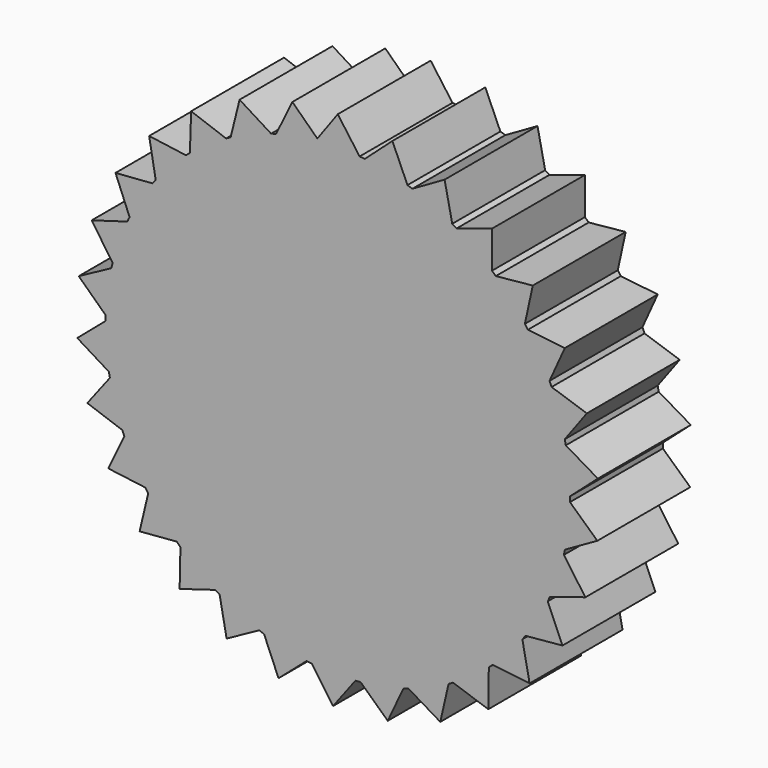
from build123d import *

# Parameters (mm, degrees)
F1_DEPTH = 12.7


with BuildPart() as f1:
    # F0 (on Front) → F1 (new body)
    with BuildSketch(Plane.XZ):
        with BuildLine():
            ThreePointArc((25.3948429948, -0.5118097985), (25.398710716, -0.2559178894), (25.4, 0))
            ThreePointArc((25.4, 0), (25.3999860485, 0.0266220613), (25.3999441942, 0.0532440933))
            ThreePointArc((25.3999441942, 0.0532440933), (25.2823297123, 2.4420901537), (24.9405452403, 4.8092830148))
            ThreePointArc((24.9405452403, 4.8092830148), (24.8855058459, 5.0864131562), (24.8273871825, 5.3629139178))
            ThreePointArc((24.8273871825, 5.3629139178), (24.2128911527, 7.6743665555), (23.383707488, 9.917773143))
            ThreePointArc((23.383707488, 9.917773143), (23.2719398097, 10.1772696484), (23.1572925209, 10.4355068444))
            ThreePointArc((23.1572925209, 10.4355068444), (22.0730798045, 12.5673842921), (20.7931524471, 14.5878309324))
            ThreePointArc((20.7931524471, 14.5878309324), (20.6295973686, 14.8182223093), (20.4634896365, 15.0467801172))
            ThreePointArc((20.4634896365, 15.0467801172), (18.9574897343, 16.9048390402), (17.2834000897, 18.6130083903))
            ThreePointArc((17.2834000897, 18.6130083903), (17.0752878467, 18.8041097889), (16.8650627512, 18.9928844149))
            ThreePointArc((16.8650627512, 18.9928844149), (15.0038509972, 20.4949861004), (13.0096050977, 21.8153655757))
            ThreePointArc((13.0096050977, 21.8153655757), (12.7661356522, 21.9587290277), (12.5210865577, 22.0993753625))
            ThreePointArc((12.5210865577, 22.0993753625), (10.386941041, 23.1791168039), (8.1606979804, 24.053336743))
            ThreePointArc((8.1606979804, 24.053336743), (7.892634321, 24.1426246186), (7.6235940472, 24.2289251475))
            ThreePointArc((7.6235940472, 24.2289251475), (5.3108583666, 24.8385745044), (2.9510330751, 25.2279885007))
            ThreePointArc((2.9510330751, 25.2279885007), (2.6702254201, 25.2592536748), (2.3890873582, 25.2873933333))
            ThreePointArc((2.3890873582, 25.2873933333), (0.1760546114, 25.3993898504), (-2.0383180173, 25.3180816742))
            ThreePointArc((-2.0383180173, 25.3180816742), (-2.2137558658, 25.3033453315), (-2.3890873582, 25.2873933333))
            ThreePointArc((-2.3890873582, 25.2873933333), (-4.5839377077, 24.982944484), (-6.7439015233, 24.4883603421))
            ThreePointArc((-6.7439015233, 24.4883603421), (-7.0158820659, 24.411829076), (-7.2869944811, 24.3322771526))
            ThreePointArc((-7.2869944811, 24.3322771526), (-9.5433476931, 23.5389998685), (-11.7150832222, 22.5370101189))
            ThreePointArc((-11.7150832222, 22.5370101189), (-11.9650502401, 22.4053023356), (-12.2135367333, 22.2708221775))
            ThreePointArc((-12.2135367333, 22.2708221775), (-14.2541514602, 21.0233005532), (-16.1683793774, 19.5893723306))
            ThreePointArc((-16.1683793774, 19.5893723306), (-16.3852826458, 19.4083104009), (-16.6001584412, 19.2248469364))
            ThreePointArc((-16.6001584412, 19.2248469364), (-18.3348257747, 17.5782298259), (-19.9069243197, 15.7757524109))
            ThreePointArc((-19.9069243197, 15.7757524109), (-20.0811752538, 15.5533404909), (-20.2529413947, 15.3290040402))
            ThreePointArc((-20.2529413947, 15.3290040402), (-21.604977361, 13.3560830047), (-22.7654491948, 11.2647380332))
            ThreePointArc((-22.7654491948, 11.2647380332), (-22.8893447304, 11.010808227), (-23.010407997, 10.7555159715))
            ThreePointArc((-23.010407997, 10.7555159715), (-23.9200435047, 8.5435074024), (-24.61758796, 6.255746401))
            ThreePointArc((-24.61758796, 6.255746401), (-24.6856510803, 5.9815241155), (-24.7506596611, 5.7065616914))
            ThreePointArc((-24.7506596611, 5.7065616914), (-25.1776826971, 3.3532512586), (-25.3814636132, 0.9702086645))
            ThreePointArc((-25.3814636132, 0.9702086645), (-25.3906854701, 0.6878163708), (-25.3967655484, 0.4053389684))
            ThreePointArc((-25.3967655484, 0.4053389684), (-25.3222988198, -1.9852411648), (-25.0233077083, -4.3582188263))
            ThreePointArc((-25.0233077083, -4.3582188263), (-24.9732806336, -4.6362974879), (-24.920163429, -4.9138024658))
            ThreePointArc((-24.920163429, -4.9138024658), (-24.3474988664, -7.2359725641), (-23.5589531473, -9.4939837057))
            ThreePointArc((-23.5589531473, -9.4939837057), (-23.4518886745, -9.7554557863), (-23.341922325, -10.0157207516))
            ThreePointArc((-23.341922325, -10.0157207516), (-22.2963755574, -12.166825264), (-21.0531342598, -14.2100505924))
            ThreePointArc((-21.0531342598, -14.2100505924), (-20.8937653594, -14.4433572658), (-20.7318111179, -14.674876755))
            ThreePointArc((-20.7318111179, -14.674876755), (-19.2596023508, -16.5598223809), (-17.6166251096, -18.2979375818))
            ThreePointArc((-17.6166251096, -18.2979375818), (-17.4119969598, -18.4927651224), (-17.2052142941, -18.6853044154))
            ThreePointArc((-17.2052142941, -18.6853044154), (-15.3714250659, -20.2207638689), (-13.4013425355, -21.5769325495))
            ThreePointArc((-13.4013425355, -21.5769325495), (-13.1605010782, -21.7246682684), (-12.918031174, -21.8697158323))
            ThreePointArc((-12.918031174, -21.8697158323), (-10.8037273136, -22.987811469), (-8.5936304044, -23.9020818439))
            ThreePointArc((-8.5936304044, -23.9020818439), (-8.3272224532, -23.9961948278), (-8.0597841127, -24.0873385839))
            ThreePointArc((-8.0597841127, -24.0873385839), (-5.7584320841, -24.7386430496), (-3.4060219576, -25.1705982135))
            ThreePointArc((-3.4060219576, -25.1705982135), (-3.1258245374, -25.206928035), (-2.8452403356, -25.2401388156))
            ThreePointArc((-2.8452403356, -25.2401388156), (-0.458575391, -25.3958600683), (1.9321555888, -25.3264046951))
            ThreePointArc((1.9321555888, -25.3264046951), (2.2137558658, -25.3033453315), (2.4950822182, -25.2771549966))
            ThreePointArc((2.4950822182, -25.2771549966), (4.8615534215, -24.9304091088), (7.1849188511, -24.3626135934))
            ThreePointArc((7.1849188511, -24.3626135934), (7.4554733568, -24.2811844239), (7.7251053413, -24.1967507626))
            ThreePointArc((7.7251053413, -24.1967507626), (9.9667688451, -23.3628662366), (12.1200603317, -22.3218309633))
            ThreePointArc((12.1200603317, -22.3218309633), (12.3676087357, -22.1856317052), (12.6136268034, -22.0466872537))
            ThreePointArc((12.6136268034, -22.0466872537), (14.63138599, -20.7625273994), (16.5194135542, -19.2942731354))
            ThreePointArc((16.5194135542, -19.2942731354), (16.7330125505, -19.1093247129), (16.9445410466, -18.9220117514))
            ThreePointArc((16.9445410466, -18.9220117514), (18.6491973766, -17.2443450791), (20.1884974899, -15.4137785471))
            ThreePointArc((20.1884974899, -15.4137785471), (20.358704565, -15.1882569255), (20.526392506, -14.9608559478))
            ThreePointArc((20.526392506, -14.9608559478), (21.842588694, -12.9638466185), (22.9651139288, -10.8518911824))
            ThreePointArc((22.9651139288, -10.8518911824), (23.0844047841, -10.5957659356), (23.2008392342, -10.3383295957))
            ThreePointArc((23.2008392342, -10.3383295957), (24.070390548, -8.1102588655), (24.7265177324, -5.8102771732))
            ThreePointArc((24.7265177324, -5.8102771732), (24.789618909, -5.5348707613), (24.8496526816, -5.2587794786))
            ThreePointArc((24.8496526816, -5.2587794786), (25.2341190995, -2.8981430728), (25.3948429948, -0.5118097985))
        make_face()
        with BuildLine():
            ThreePointArc((24.9405452403, 4.8092830148), (25.2823297123, 2.4420901537), (25.3999441942, 0.0532440933))
            Line((25.3999441942, 0.0532440933), (28.4426209263, 2.7473514229))
            Line((28.4426209263, 2.7473514229), (24.9405452403, 4.8092830148))
        make_face()
        with BuildLine():
            Line((28.388383987, -3.2604109569), (25.3948429948, -0.5118097985))
            ThreePointArc((25.3948429948, -0.5118097985), (25.2341190995, -2.8981430728), (24.8496526816, -5.2587794786))
            Line((24.8496526816, -5.2587794786), (28.388383987, -3.2604109569))
        make_face()
        with BuildLine():
            ThreePointArc((23.383707488, 9.917773143), (24.2128911527, 7.6743665555), (24.8273871825, 5.3629139178))
            Line((24.8273871825, 5.3629139178), (27.2395025468, 8.6336623749))
            Line((27.2395025468, 8.6336623749), (23.383707488, 9.917773143))
        make_face()
        with BuildLine():
            Line((27.0791893665, -9.1240412236), (24.7265177324, -5.8102771732))
            ThreePointArc((24.7265177324, -5.8102771732), (24.070390548, -8.1102588655), (23.2008392342, -10.3383295957))
            Line((23.2008392342, -10.3383295957), (27.0791893665, -9.1240412236))
        make_face()
        with BuildLine():
            ThreePointArc((20.7931524471, 14.5878309324), (22.0730798045, 12.5673842921), (23.1572925209, 10.4355068444))
            Line((23.1572925209, 10.4355068444), (24.83221478, 14.1383073286))
            Line((24.83221478, 14.1383073286), (20.7931524471, 14.5878309324))
        make_face()
        with BuildLine():
            Line((24.5729122807, -14.5843274458), (22.9651139288, -10.8518911824))
            ThreePointArc((22.9651139288, -10.8518911824), (21.842588694, -12.9638466185), (20.526392506, -14.9608559478))
            Line((20.526392506, -14.9608559478), (24.5729122807, -14.5843274458))
        make_face()
        with BuildLine():
            ThreePointArc((17.2834000897, 18.6130083903), (18.9574897343, 16.9048390402), (20.4634896365, 15.0467801172))
            Line((20.4634896365, 15.0467801172), (21.3271759511, 19.0179439202))
            Line((21.3271759511, 19.0179439202), (17.2834000897, 18.6130083903))
        make_face()
        with BuildLine():
            Line((20.9803470487, -19.399888214), (20.1884974899, -15.4137785471))
            ThreePointArc((20.1884974899, -15.4137785471), (18.6491973766, -17.2443450791), (16.9445410466, -18.9220117514))
            Line((16.9445410466, -18.9220117514), (20.9803470487, -19.399888214))
        make_face()
        with BuildLine():
            ThreePointArc((13.0096050977, 21.8153655757), (15.0038509972, 20.4949861004), (16.8650627512, 18.9928844149))
            Line((16.8650627512, 18.9928844149), (16.8793323718, 23.0568593629))
            Line((16.8793323718, 23.0568593629), (13.0096050977, 21.8153655757))
        make_face()
        with BuildLine():
            Line((16.4603092388, -23.3578433243), (16.5194135542, -19.2942731354))
            ThreePointArc((16.5194135542, -19.2942731354), (14.63138599, -20.7625273994), (12.6136268034, -22.0466872537))
            Line((12.6136268034, -22.0466872537), (16.4603092388, -23.3578433243))
        make_face()
        with BuildLine():
            ThreePointArc((8.1606979804, 24.053336743), (10.386941041, 23.1791168039), (12.5210865577, 22.0993753625))
            Line((12.5210865577, 22.0993753625), (11.6853086711, 26.0765064044))
            Line((11.6853086711, 26.0765064044), (8.1606979804, 24.053336743))
        make_face()
        with BuildLine():
            Line((11.2126149507, -26.2832245162), (12.1200603317, -22.3218309633))
            ThreePointArc((12.1200603317, -22.3218309633), (9.9667688451, -23.3628662366), (7.7251053413, -24.1967507626))
            Line((7.7251053413, -24.1967507626), (11.2126149507, -26.2832245162))
        make_face()
        with BuildLine():
            ThreePointArc((2.9510330751, 25.2279885007), (5.3108583666, 24.8385745044), (7.6235940472, 24.2289251475))
            Line((7.6235940472, 24.2289251475), (5.9747156624, 27.9433963174))
            Line((5.9747156624, 27.9433963174), (2.9510330751, 25.2279885007))
        make_face()
        with BuildLine():
            Line((5.4692475992, -28.0467102473), (7.1849188511, -24.3626135934))
            ThreePointArc((7.1849188511, -24.3626135934), (4.8615534215, -24.9304091088), (2.4950822182, -25.2771549966))
            Line((2.4950822182, -25.2771549966), (5.4692475992, -28.0467102473))
        make_face()
        with BuildLine():
            ThreePointArc((-2.0383180173, 25.3180816742), (0.1760546114, 25.3993898504), (2.3890873582, 25.2873933333))
            Line((2.3890873582, 25.2873933333), (0, 28.575))
            Line((0, 28.575), (-2.2313505794, 25.5044538287))
            Line((-2.2313505794, 25.5044538287), (-2.0383180173, 25.3180816742))
        make_face()
        with BuildLine():
            Line((-0.5158973148, -28.5703425769), (1.9321555888, -25.3264046951))
            ThreePointArc((1.9321555888, -25.3264046951), (-0.458575391, -25.3958600683), (-2.8452403356, -25.2401388156))
            Line((-2.8452403356, -25.2401388156), (-0.5158973148, -28.5703425769))
        make_face()
        with BuildLine():
            ThreePointArc((-2.3890873582, 25.2873933333), (-2.2137558658, 25.3033453315), (-2.0383180173, 25.3180816742))
            Line((-2.0383180173, 25.3180816742), (-2.2313505794, 25.5044538287))
            Line((-2.2313505794, 25.5044538287), (-2.3890873582, 25.2873933333))
        make_face()
        with BuildLine():
            ThreePointArc((-6.7439015233, 24.4883603421), (-4.5839377077, 24.982944484), (-2.3890873582, 25.2873933333))
            Line((-2.3890873582, 25.2873933333), (-2.2313505794, 25.5044538287))
            Line((-2.2313505794, 25.5044538287), (-4.9619966768, 28.1408815423))
            Line((-4.9619966768, 28.1408815423), (-6.7439015233, 24.4883603421))
        make_face()
        with BuildLine():
            Line((-6.4782360946, -27.8309734307), (-3.4060219576, -25.1705982135))
            ThreePointArc((-3.4060219576, -25.1705982135), (-5.7584320841, -24.7386430496), (-8.0597841127, -24.0873385839))
            Line((-8.0597841127, -24.0873385839), (-6.4782360946, -27.8309734307))
        make_face()
        with BuildLine():
            ThreePointArc((-11.7150832222, 22.5370101189), (-9.5433476931, 23.5389998685), (-7.2869944811, 24.3322771526))
            Line((-7.2869944811, 24.3322771526), (-10.7362661547, 26.481374852))
            Line((-10.7362661547, 26.481374852), (-11.7150832222, 22.5370101189))
        make_face()
        with BuildLine():
            Line((-12.1541932278, -25.8612879026), (-8.5936304044, -23.9020818439))
            ThreePointArc((-8.5936304044, -23.9020818439), (-10.8037273136, -22.987811469), (-12.918031174, -21.8697158323))
            Line((-12.918031174, -21.8697158323), (-12.1541932278, -25.8612879026))
        make_face()
        with BuildLine():
            ThreePointArc((-16.1683793774, 19.5893723306), (-14.2541514602, 21.0233005532), (-12.2135367333, 22.2708221775))
            Line((-12.2135367333, 22.2708221775), (-16.0359203927, 23.6512131223))
            Line((-16.0359203927, 23.6512131223), (-16.1683793774, 19.5893723306))
        make_face()
        with BuildLine():
            Line((-17.2928531992, -22.7483593525), (-13.4013425355, -21.5769325495))
            ThreePointArc((-13.4013425355, -21.5769325495), (-15.3714250659, -20.2207638689), (-17.2052142941, -18.6853044154))
            Line((-17.2052142941, -18.6853044154), (-17.2928531992, -22.7483593525))
        make_face()
        with BuildLine():
            ThreePointArc((-19.9069243197, 15.7757524109), (-18.3348257747, 17.5782298259), (-16.6001584412, 19.2248469364))
            Line((-16.6001584412, 19.2248469364), (-20.6266789965, 19.7755085541))
            Line((-20.6266789965, 19.7755085541), (-19.9069243197, 15.7757524109))
        make_face()
        with BuildLine():
            Line((-21.6670526447, -18.6298001786), (-17.6166251096, -18.2979375818))
            ThreePointArc((-17.6166251096, -18.2979375818), (-19.2596023508, -16.5598223809), (-20.7318111179, -14.674876755))
            Line((-20.7318111179, -14.674876755), (-21.6670526447, -18.6298001786))
        make_face()
        with BuildLine():
            ThreePointArc((-22.7654491948, 11.2647380332), (-21.604977361, 13.3560830047), (-20.2529413947, 15.3290040402))
            Line((-20.2529413947, 15.3290040402), (-24.3055995312, 15.0255933803))
            Line((-24.3055995312, 15.0255933803), (-22.7654491948, 11.2647380332))
        make_face()
        with BuildLine():
            Line((-25.083422502, -13.687678422), (-21.0531342598, -14.2100505924))
            ThreePointArc((-21.0531342598, -14.2100505924), (-22.2963755574, -12.166825264), (-23.341922325, -10.0157207516))
            Line((-23.341922325, -10.0157207516), (-25.083422502, -13.687678422))
        make_face()
        with BuildLine():
            ThreePointArc((-24.61758796, 6.255746401), (-23.9200435047, 8.5435074024), (-23.010407997, 10.7555159715))
            Line((-23.010407997, 10.7555159715), (-26.9100489427, 9.6114458277))
            Line((-26.9100489427, 9.6114458277), (-24.61758796, 6.255746401))
        make_face()
        with BuildLine():
            Line((-27.3909362247, -8.1404691347), (-23.5589531473, -9.4939837057))
            ThreePointArc((-23.5589531473, -9.4939837057), (-24.3474988664, -7.2359725641), (-24.920163429, -4.9138024658))
            Line((-24.920163429, -4.9138024658), (-27.3909362247, -8.1404691347))
        make_face()
        with BuildLine():
            ThreePointArc((-25.3814636132, 0.9702086645), (-25.1776826971, 3.3532512586), (-24.7506596611, 5.7065616914))
            Line((-24.7506596611, 5.7065616914), (-28.3248930343, 3.7724076659))
            Line((-28.3248930343, 3.7724076659), (-25.3814636132, 0.9702086645))
        make_face()
        with BuildLine():
            Line((-28.4875861722, -2.2333963104), (-25.0233077083, -4.3582188263))
            ThreePointArc((-25.0233077083, -4.3582188263), (-25.3222988198, -1.9852411648), (-25.3967655484, 0.4053389684))
            Line((-25.3967655484, 0.4053389684), (-28.4875861722, -2.2333963104))
        make_face()
    extrude(amount=F1_DEPTH)


solid = f1.part
